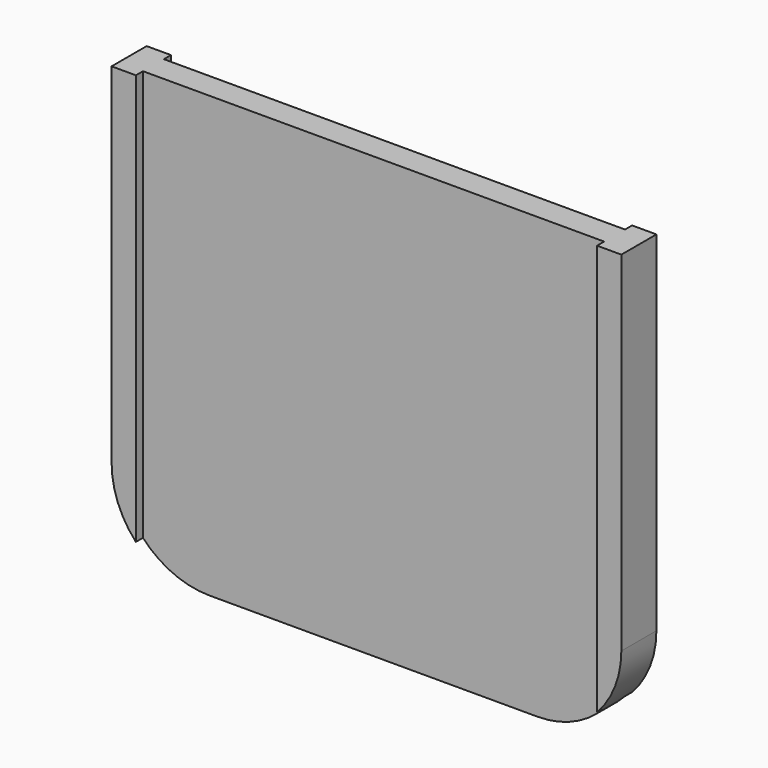
from build123d import *

# Parameters (mm, degrees)
F0_W     = 0.8
F0_H     = 1.72
F0_W_2   = 30.4
F1_DEPTH = 29
F2_R     = 6


with BuildPart() as f1:
    # F0 (on Top) → F1 (new body)
    with BuildSketch(Plane.XY):
        Polygon((-16, -0.86), (-16, 0.86), (-15.2, 0.86), (-15.2, 1.445), (-16.8, 1.445), (-16.8, -1.445), (-15.2, -1.445), (-15.2, -0.86), align=None)
        with Locations((-15.6, 0)):
            Rectangle(F0_W, F0_H)
        Rectangle(F0_W_2, F0_H)
        Polygon((15.2, 1.445), (15.2, 0.86), (16, 0.86), (16, -0.86), (15.2, -0.86), (15.2, -1.445), (16.8, -1.445), (16.8, 1.445), align=None)
        with Locations((15.6, 0)):
            Rectangle(F0_W, F0_H)
    extrude(amount=F1_DEPTH)

    # F2
    f2_edges = [f1.edges().sort_by_distance(p)[0] for p in [
        (-16.8, 0, 0),
        (16.8, 0, 0),
    ]]
    fillet(f2_edges, radius=F2_R)


solid = f1.part
